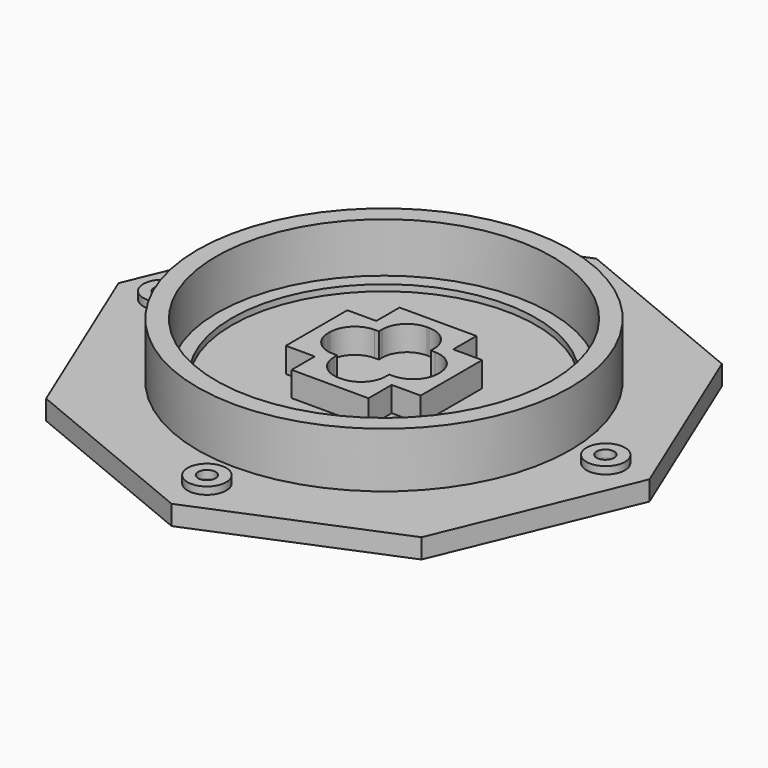
from build123d import *

# Parameters (mm, degrees)
F0_R      = 1.778
F1_DEPTH  = 4
F2_R      = 38
F2_R_2    = 34.25
F3_DEPTH  = 15.24
F4_R      = 33.9471
F4_R_2    = 31
F5_DEPTH  = 1.27
F7_DEPTH  = 5.08
F8_R      = 3.81221
F8_R_2    = 3.881316
F8_R_3    = 3.942619
F8_R_4    = 3.925346
F9_DEPTH  = 1.5
F10_R     = 1.778
F11_DEPTH = 25.4


with BuildPart() as f1:
    # F0 (on Top) → F1 (new body)
    with BuildSketch(Plane.XY):
        Polygon((38.268343, -38.268343), (54.11961, 0), (38.268343, 38.268343), (0, 54.11961), (-38.268343, 38.268343), (-54.11961, 0), (-38.268343, -38.268343), (0, -54.11961), align=None)
        with Locations((0, -45.129232)):
            Circle(F0_R, mode=Mode.SUBTRACT)
        with Locations((-45.129232, 0)):
            Circle(F0_R, mode=Mode.SUBTRACT)
        with Locations((45.129232, 0)):
            Circle(F0_R, mode=Mode.SUBTRACT)
        with Locations((0, 45.129232)):
            Circle(F0_R, mode=Mode.SUBTRACT)
    extrude(amount=F1_DEPTH)

    # F2 (on Top) → F3 (join)
    with BuildSketch(Plane.XY):
        Circle(F2_R)
        Circle(F2_R_2, mode=Mode.SUBTRACT)
    extrude(amount=F3_DEPTH)

    # F4 (on face) → F5 (join)
    with BuildSketch(Plane.XY.offset(4)):
        Circle(F4_R)
        Circle(F4_R_2, mode=Mode.SUBTRACT)
    extrude(amount=F5_DEPTH)

    # F6 (on face) → F7 (join)
    with BuildSketch(Plane.XY.offset(4)):
        Polygon((7.838351, 13.74736), (-7.838351, 13.74736), (-7.838351, 11.297162), (-7.838351, 7.838351), (-11.297162, 7.838351), (-13.74736, 7.838351), (-13.74736, -7.838351), (-11.117557, -7.838351), (-7.838351, -7.838351), (-7.838351, -11.117557), (-7.838351, -13.74736), (7.838351, -13.74736), (7.838351, -11.297162), (7.838351, -7.838351), (11.297162, -7.838351), (13.74736, -7.838351), (13.74736, 7.838351), (11.117557, 7.838351), (7.838351, 7.838351), (7.838351, 11.117557), align=None)
        with BuildLine():
            ThreePointArc((-5.298351, 6.12736), (-3.810454, 9.719462), (-0.218351, 11.20736))
            Line((-0.218351, 11.20736), (0.218351, 11.20736))
            ThreePointArc((0.218351, 11.20736), (3.810454, 9.719462), (5.298351, 6.12736))
            Line((5.298351, 6.12736), (5.298351, 5.298351))
            Line((5.298351, 5.298351), (6.12736, 5.298351))
            ThreePointArc((6.12736, 5.298351), (9.719462, 3.810454), (11.20736, 0.218351))
            Line((11.20736, 0.218351), (11.20736, -0.218351))
            ThreePointArc((11.20736, -0.218351), (9.719462, -3.810454), (6.12736, -5.298351))
            Line((6.12736, -5.298351), (5.298351, -5.298351))
            Line((5.298351, -5.298351), (5.298351, -6.12736))
            ThreePointArc((5.298351, -6.12736), (3.810454, -9.719462), (0.218351, -11.20736))
            Line((0.218351, -11.20736), (-0.218351, -11.20736))
            ThreePointArc((-0.218351, -11.20736), (-3.810454, -9.719462), (-5.298351, -6.12736))
            Line((-5.298351, -6.12736), (-5.298351, -5.298351))
            Line((-5.298351, -5.298351), (-6.12736, -5.298351))
            ThreePointArc((-6.12736, -5.298351), (-9.719462, -3.810454), (-11.20736, -0.218351))
            Line((-11.20736, -0.218351), (-11.20736, 0.218351))
            ThreePointArc((-11.20736, 0.218351), (-9.719462, 3.810454), (-6.12736, 5.298351))
            Line((-6.12736, 5.298351), (-5.298351, 5.298351))
            Line((-5.298351, 5.298351), (-5.298351, 6.12736))
        make_face(mode=Mode.SUBTRACT)
    extrude(amount=F7_DEPTH)

    # F8 (on face) → F9 (join)
    with BuildSketch(Plane.XY.offset(4)):
        with Locations((0, 45.151103)):
            Circle(F8_R)
        with Locations((-45.181099, 0)):
            Circle(F8_R_2)
        with Locations((0, -45.120213)):
            Circle(F8_R_3)
        with Locations((45.201581, 0)):
            Circle(F8_R_4)
    extrude(amount=F9_DEPTH)

    # F10 (on face) → F11 (cut)
    with BuildSketch(Plane(origin=(0, 0, 0), x_dir=(1, 0, 0), z_dir=(0, 0, -1))):
        with Locations((45.129232, 0)):
            Circle(F10_R)
        with Locations((0, -45.129232)):
            Circle(F10_R)
        with Locations((-45.129232, 0)):
            Circle(F10_R)
        with Locations((0, 45.129232)):
            Circle(F10_R)
    extrude(amount=-F11_DEPTH, mode=Mode.SUBTRACT)


solid = f1.part
